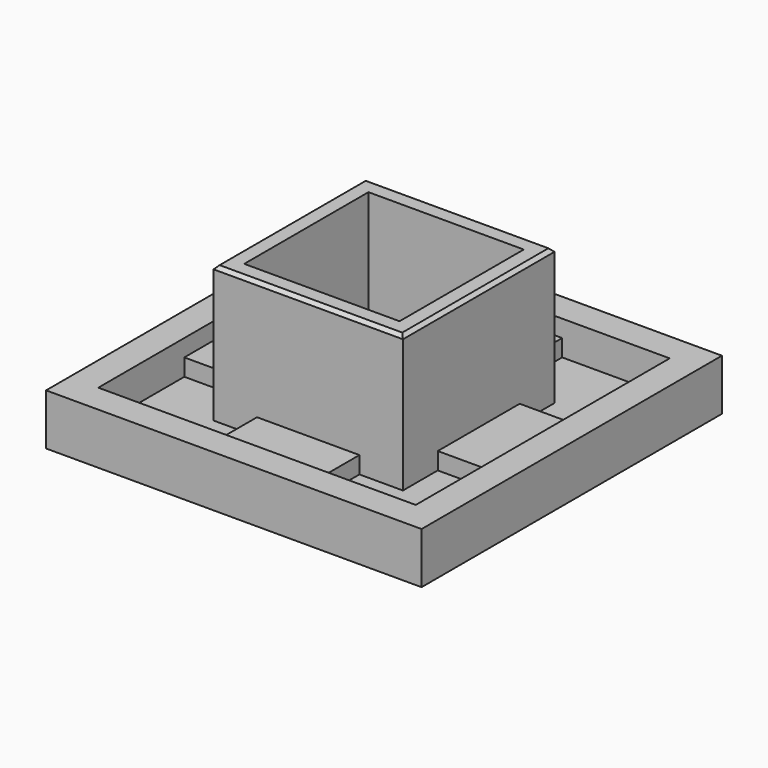
from build123d import *

# Parameters (mm, degrees)
F0_W      = 110
F0_H      = 110
F1_DEPTH  = 20
F2_W      = 30
F2_H      = 18.75
F2_W_2    = 18.75
F2_H_2    = 30
F3_DEPTH  = 5
F2_W_3    = 45.5
F2_H_3    = 45.5
F4_DEPTH  = 30
F2_R      = 4.5
F5_DEPTH  = 20.001
F2_R_2    = 10
F6_DEPTH  = 10
F7_SIZE2  = 5
F7_SIZE   = 10
F8_SIZE   = 1
F9_DEPTH  = 10
F10_DEPTH = 15


with BuildPart() as f1:
    # F0 (on Top) → F1 (new body)
    with BuildSketch(Plane.XY):
        with Locations((55, 55)):
            Rectangle(F0_W, F0_H)
    extrude(amount=F1_DEPTH)

    # F2 (on face) → F3 (cut)
    with BuildSketch(Plane.XY.offset(20)):
        Polygon((27.25, 70), (27.25, 82.75), (40, 82.75), (40, 101.5), (8.5, 101.5), (8.5, 70), align=None)
        with Locations((55, 92.125)):
            Rectangle(F2_W, F2_H)
        Polygon((70, 101.5), (70, 82.75), (82.75, 82.75), (82.75, 70), (101.5, 70), (101.5, 101.5), align=None)
        with Locations((92.125, 55)):
            Rectangle(F2_W_2, F2_H_2)
        with Locations((55, 17.875)):
            Rectangle(F2_W, F2_H)
        with Locations((17.875, 55)):
            Rectangle(F2_W_2, F2_H_2)
    extrude(amount=-F3_DEPTH, mode=Mode.SUBTRACT)

    # F2 (on face) → F4 (join)
    with BuildSketch(Plane.XY.offset(20)):
        Polygon((40, 82.75), (27.25, 82.75), (27.25, 70), (27.25, 40), (27.25, 27.25), (40, 27.25), (70, 27.25), (82.75, 27.25), (82.75, 40), (82.75, 70), (82.75, 82.75), (70, 82.75), align=None)
        with Locations((55, 55)):
            Rectangle(F2_W_3, F2_H_3, mode=Mode.SUBTRACT)
    extrude(amount=F4_DEPTH)

    # F2 (on face) → F5 (cut, through all)
    with BuildSketch(Plane.XY.offset(20)):
        with Locations((55, 55)):
            Circle(F2_R)
    extrude(amount=-F5_DEPTH, mode=Mode.SUBTRACT)

    # F2 (on face) → F6 (cut)
    with BuildSketch(Plane.XY.offset(20)):
        with Locations((55, 55)):
            Rectangle(F2_W_3, F2_H_3)
        with Locations((55, 55)):
            Circle(F2_R_2, mode=Mode.SUBTRACT)
    extrude(amount=-F6_DEPTH, mode=Mode.SUBTRACT)

    # F7
    f7_edges = [f1.edges().sort_by_distance(p)[0] for p in [
        (55, 110, 0),
        (0, 55, 0),
        (55, 0, 0),
        (110, 55, 0),
    ]]
    f7_side = f1.faces().sort_by_distance((1.555635, 55, 0))[0]
    chamfer(f7_edges, length=F7_SIZE, length2=F7_SIZE2, reference=f7_side)

    # F8
    f8_edges = [f1.edges().sort_by_distance(p)[0] for p in [
        (55, 27.25, 50),
        (27.25, 55, 50),
        (82.75, 55, 50),
        (55, 82.75, 50),
    ]]
    chamfer(f8_edges, length=F8_SIZE)

    # F2 (on face) → F9 (cut)
    with BuildSketch(Plane.XY.offset(20)):
        Polygon((27.25, 70), (27.25, 82.75), (40, 82.75), (40, 101.5), (8.5, 101.5), (8.5, 70), align=None)
        Polygon((27.25, 27.25), (27.25, 40), (8.5, 40), (8.5, 8.5), (40, 8.5), (40, 27.25), align=None)
        Polygon((101.5, 40), (82.75, 40), (82.75, 27.25), (70, 27.25), (70, 8.5), (101.5, 8.5), align=None)
        Polygon((70, 101.5), (70, 82.75), (82.75, 82.75), (82.75, 70), (101.5, 70), (101.5, 101.5), align=None)
    extrude(amount=-F9_DEPTH, mode=Mode.SUBTRACT)

    # F2 (on face) → F10 (cut)
    with BuildSketch(Plane.XY.offset(20)):
        with Locations((55, 55)):
            Circle(F2_R_2)
        with Locations((55, 55)):
            Circle(F2_R, mode=Mode.SUBTRACT)
    extrude(amount=-F10_DEPTH, mode=Mode.SUBTRACT)


solid = f1.part
